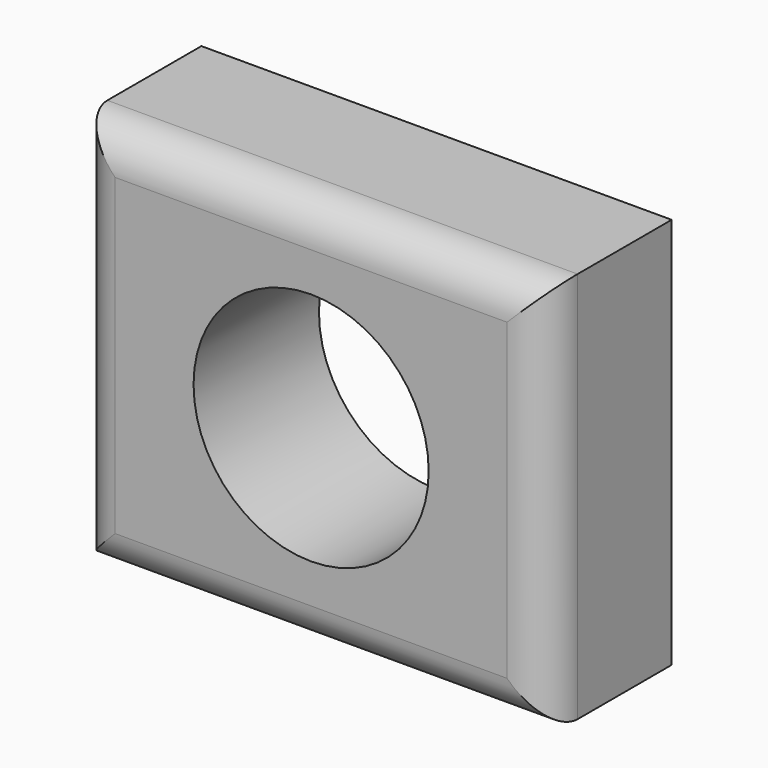
from build123d import *

# Parameters (mm, degrees)
F0_W     = 76.2
F0_H     = 63.5
F0_R     = 19.05
F1_DEPTH = 12.7
F2_R     = 6.35


with BuildPart() as f1:
    # F0 (on Front) → F1 (new body, symmetric)
    with BuildSketch(Plane.XZ):
        Rectangle(F0_W, F0_H)
        Circle(F0_R, mode=Mode.SUBTRACT)
    extrude(amount=F1_DEPTH, both=True)

    # F2
    f2_edges = [f1.edges().sort_by_distance(p)[0] for p in [
        (38.1, -12.7, 0),
        (0, -12.7, -31.75),
        (-38.1, -12.7, 0),
        (0, -12.7, 31.75),
    ]]
    fillet(f2_edges, radius=F2_R)


solid = f1.part
